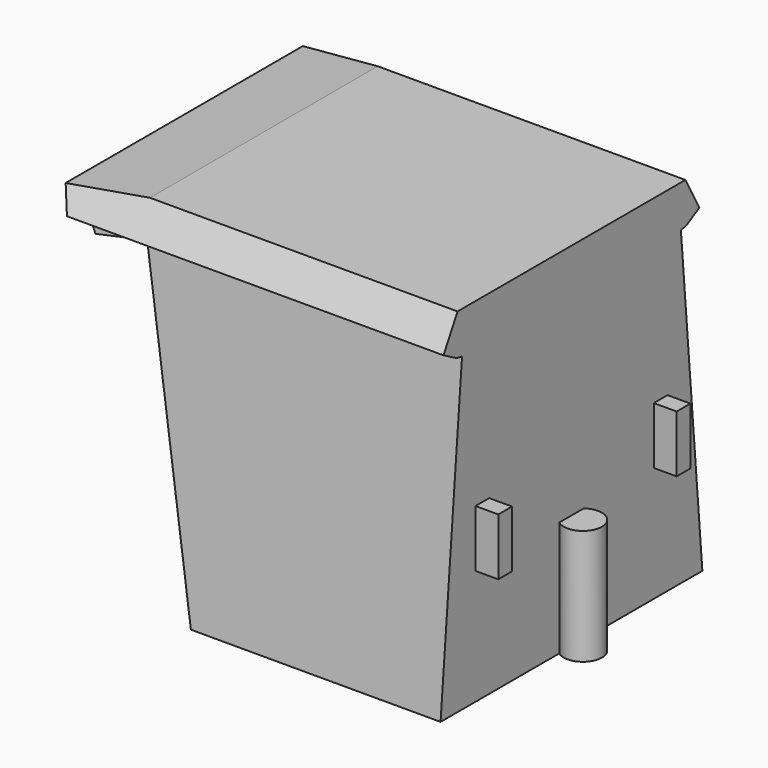
from build123d import *

# Parameters (mm, degrees)
F0_W      = 2033
F0_H      = 1717.9
F1_DEPTH  = 1852
F3_DEPTH  = 1717.901
F5_DEPTH  = 2033.001
F6_W      = 90
F6_H      = 300
F7_DEPTH  = 120
F8_R      = 20.793928
F8_R_2    = 21.25528
F9_DEPTH  = 25
F10_R     = 21.25528
F11_DEPTH = 25
F12_R     = 100
F13_DEPTH = 605


with BuildPart() as f1:
    # F0 (on Top) → F1 (new body)
    with BuildSketch(Plane.XY):
        Rectangle(F0_W, F0_H)
    extrude(amount=F1_DEPTH)

    # F2 (on face) → F3 (cut, through all)
    with BuildSketch(Plane.XZ.offset(858.95)):
        Polygon((-1016.5, 0), (-294.5, 0), (-636.5, 1632), (-904.440161, 1575.850775), (-1016.5, 1796.963811), align=None)
        Polygon((-1016.5, 1852), (-1016.5, 1796.963811), (-598.801792, 1852), align=None)
    extrude(amount=-F3_DEPTH, mode=Mode.SUBTRACT)

    # F4 (on face) → F5 (cut, through all)
    with BuildSketch(Plane.YZ.offset(1016.5)):
        Polygon((-858.95, 1852), (-858.95, 0), (-718.077719, 1632), (-751.504011, 1637.391351), (-839.757114, 1686.551592), (-747.596234, 1852), align=None)
        Polygon((718.077719, 1632), (858.95, 0), (858.95, 1852), (747.596234, 1852), (839.757114, 1686.551592), (751.504011, 1637.391351), align=None)
    extrude(amount=-F5_DEPTH, mode=Mode.SUBTRACT)

    # F6 (on face) → F7 (join)
    with BuildSketch(Plane.YZ.offset(1016.5)):
        with Locations((-585.2, 755)):
            Rectangle(F6_W, F6_H)
        with Locations((585.2, 755)):
            Rectangle(F6_W, F6_H)
    extrude(amount=F7_DEPTH)

    # F8 (on face) → F9 (cut)
    with BuildSketch(Plane(origin=(0, 0, 605), x_dir=(1, 0, 0), z_dir=(0, 0, -1))):
        with Locations((1087.2, -585.2)):
            Circle(F8_R)
        with Locations((1087.2, 585.2)):
            Circle(F8_R_2)
    extrude(amount=-F9_DEPTH, mode=Mode.SUBTRACT)

    # F10 (on face) → F11 (cut)
    with BuildSketch(Plane(origin=(0, 0, 0), x_dir=(1, 0, 0), z_dir=(0, 0, -1))):
        with Locations((-7.5, 722)):
            Circle(F10_R)
        with Locations((-7.5, -722)):
            Circle(F10_R)
    extrude(amount=-F11_DEPTH, mode=Mode.SUBTRACT)

    # F12 (on face) → F13 (join, through all)
    with BuildSketch(Plane(origin=(0, 0, 605), x_dir=(1, 0, 0), z_dir=(0, 0, -1))):
        with Locations((1076.5, 0)):
            Circle(F12_R)
    extrude(amount=F13_DEPTH)


solid = f1.part
